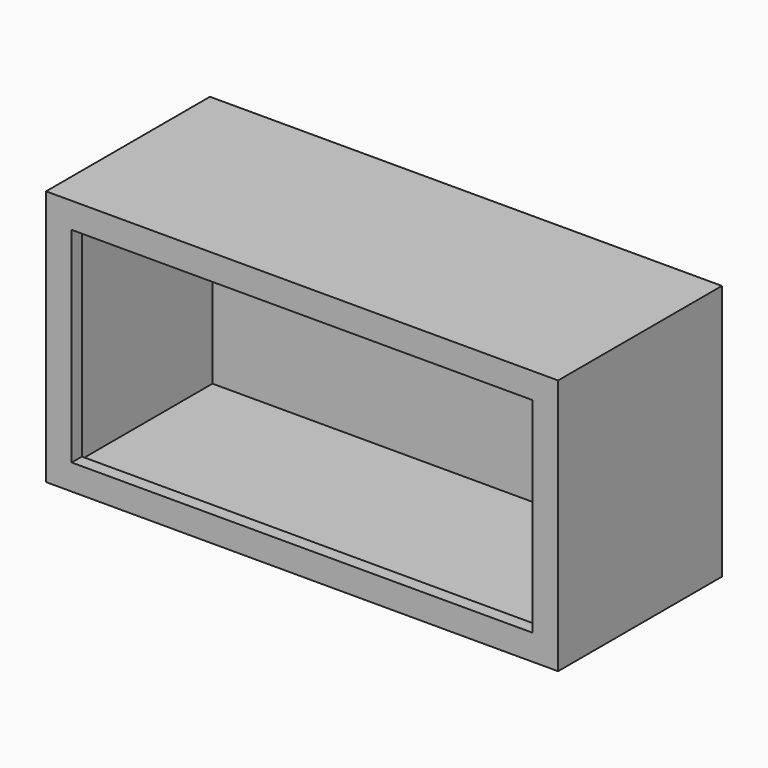
from build123d import *

# Parameters (mm, degrees)
F0_W     = 6096
F0_H     = 2438.4
F1_DEPTH = 3048
F3_T     = -152.4
F2_W     = 6096
F2_H     = 3048
F2_W_2   = 5486.4
F2_H_2   = 2438.4
F4_DEPTH = 152.4


with BuildPart() as f1:
    # F0 (on Top) → F1 (new body)
    with BuildSketch(Plane.XY):
        with Locations((3048, 1219.2)):
            Rectangle(F0_W, F0_H)
    extrude(amount=F1_DEPTH)

    # F3
    f3_openings = [f1.faces().sort_by_distance(p)[0] for p in [
        (3048, 0, 1524),
    ]]
    offset(amount=F3_T, openings=f3_openings)

    # F2 (on face) → F4 (join)
    with BuildSketch(Plane.XZ):
        with Locations((3048, 1524)):
            Rectangle(F2_W, F2_H)
        with Locations((3048, 1524)):
            Rectangle(F2_W_2, F2_H_2, mode=Mode.SUBTRACT)
    extrude(amount=-F4_DEPTH)


solid = f1.part
